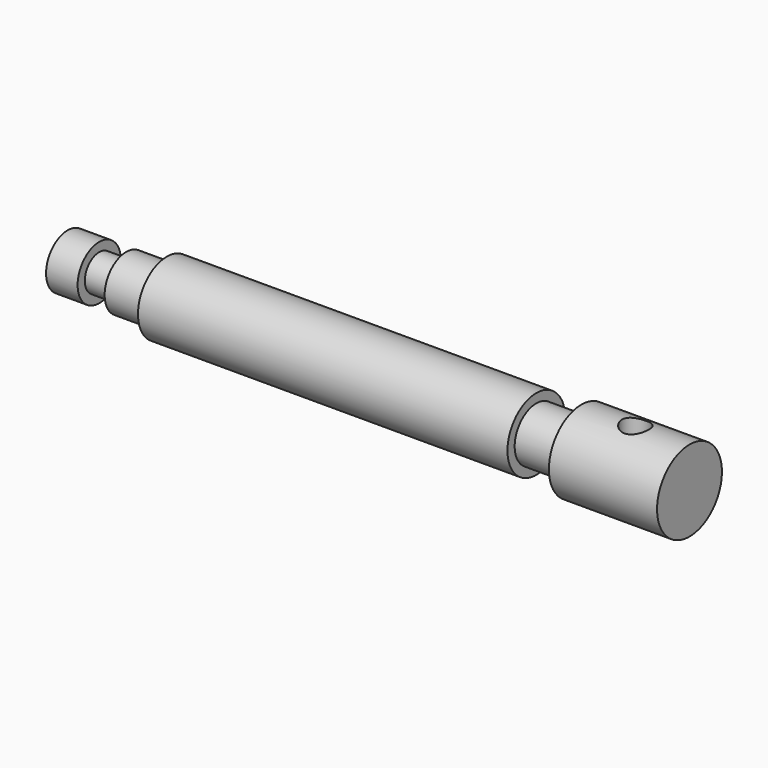
from build123d import *

# Parameters (mm, degrees)
F2_R          = 3
F3_DEPTH      = 9.001
F3_DEPTH_BACK = 9.001


with BuildPart() as f1:
    # F0 (on Front) → F1 (revolve)
    with BuildSketch(Plane.XZ):
        Polygon((0, 6), (0, 0), (138, 0), (138, 9), (114, 9), (114, 6), (104, 6), (104, 8), (22, 8), (22, 6), (13, 6), (13, 4), (7, 4), (7, 6), align=None)
    revolve(axis=Axis((69, 0, 0), (-1, 0, 0)))

    # F2 (on Top) → F3 (cut, two sides)
    with BuildSketch(Plane.XY) as f3_sk:
        with Locations((126, 0)):
            Circle(F2_R)
    extrude(amount=-F3_DEPTH, mode=Mode.SUBTRACT)
    extrude(f3_sk.sketch, amount=F3_DEPTH_BACK, mode=Mode.SUBTRACT)


solid = f1.part
